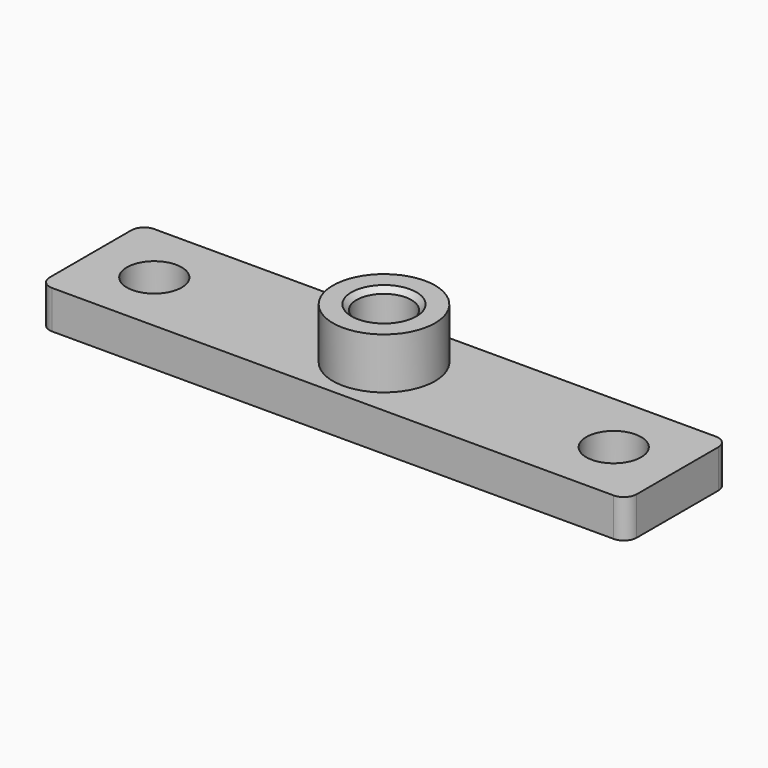
from build123d import *

# Parameters (mm, degrees)
SKETCH_W     = 46
SKETCH_H     = 10
SKETCH_R     = 2.15
PAD_DEPTH    = 3
SKETCH001_R  = 4
PAD001_DEPTH = 4
SKETCH002_R  = 2.15
POCKET_DEPTH = 7.001
FILLET_R     = 1
CHAMFER_SIZE = 0.4


with BuildPart() as part:
    # Sketch → Pad (new body)
    with BuildSketch(Plane.XY):
        with Locations((23, 5)):
            Rectangle(SKETCH_W, SKETCH_H)
        with Locations((5, 5)):
            Circle(SKETCH_R, mode=Mode.SUBTRACT)
        with Locations((41, 5)):
            Circle(SKETCH_R, mode=Mode.SUBTRACT)
        with Locations((23, 5)):
            Circle(SKETCH_R, mode=Mode.SUBTRACT)
    extrude(amount=PAD_DEPTH)

    # Sketch001 (on Face9 of Pad) → Pad001 (join)
    with BuildSketch(Plane.XY.offset(3)):
        with Locations((23, 5)):
            Circle(SKETCH001_R)
    extrude(amount=PAD001_DEPTH)

    # Sketch002 (on Face12 of Pad001) → Pocket (cut, through all)
    with BuildSketch(Plane.XY.offset(7)):
        with Locations((23, 5)):
            Circle(SKETCH002_R)
    extrude(amount=-POCKET_DEPTH, mode=Mode.SUBTRACT)

    # Fillet
    fillet_edges = [part.edges().sort_by_distance(p)[0] for p in [
        (0, 10, 1.5),
        (0, 0, 1.5),
        (46, 0, 1.5),
        (46, 10, 1.5),
    ]]
    fillet(fillet_edges, radius=FILLET_R)

    # Chamfer
    chamfer_edges = [part.edges().sort_by_distance(p)[0] for p in [
        (20.85, 5, 7),
    ]]
    chamfer(chamfer_edges, length=CHAMFER_SIZE)


solid = part.part
